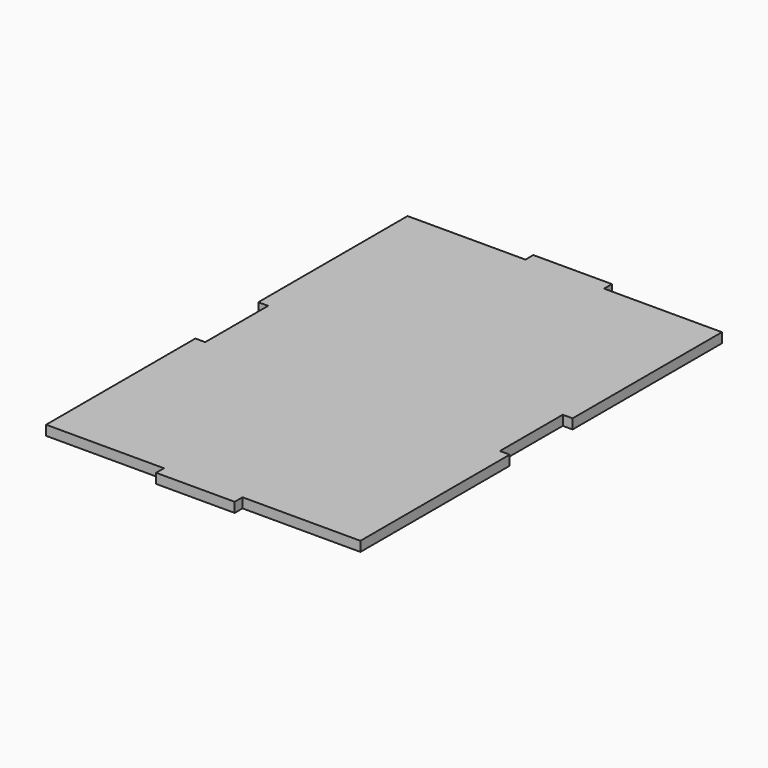
from build123d import *

# Parameters (mm, degrees)
F0_W     = 101.6
F0_H     = 146.05
F1_DEPTH = 3.175
F2_W     = 3.175
F2_H     = 25.4
F3_DEPTH = 3.175
F4_W     = 25.4
F4_H     = 3.175
F5_DEPTH = 3.175


with BuildPart() as f1:
    # F0 (on Top) → F1 (new body)
    with BuildSketch(Plane.XY):
        Rectangle(F0_W, F0_H)
    extrude(amount=F1_DEPTH)

    # F2 (on Top) → F3 (cut)
    with BuildSketch(Plane.XY):
        with Locations((-49.2125, 0)):
            Rectangle(F2_W, F2_H)
        with Locations((49.2125, 0)):
            Rectangle(F2_W, F2_H)
    extrude(amount=F3_DEPTH, mode=Mode.SUBTRACT)

    # F4 (on Top) → F5 (join)
    with BuildSketch(Plane.XY):
        with Locations((0, 74.6125)):
            Rectangle(F4_W, F4_H)
        with Locations((0, -74.6125)):
            Rectangle(F4_W, F4_H)
    extrude(amount=F5_DEPTH)


solid = f1.part
